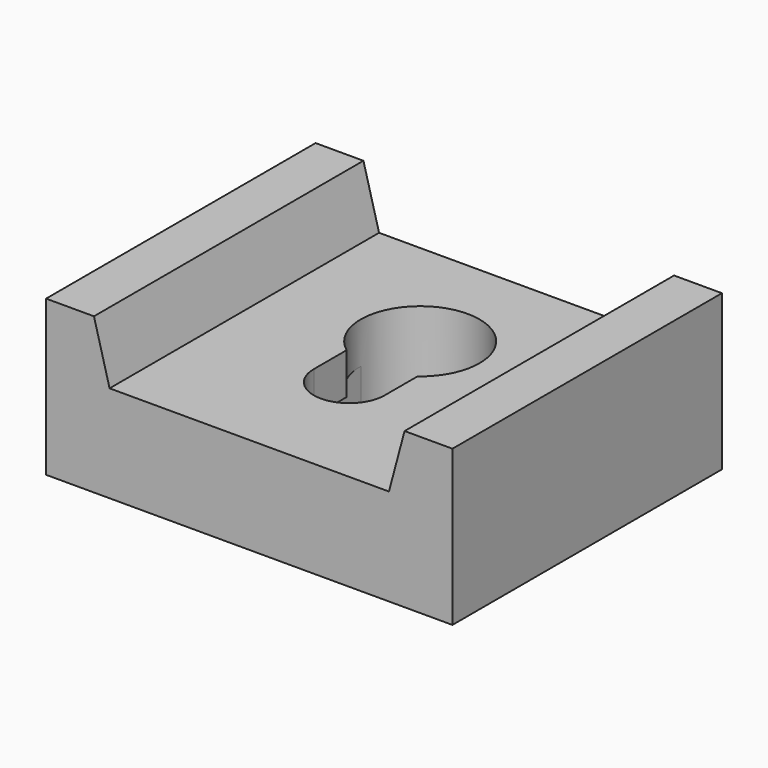
from build123d import *

# Parameters (mm, degrees)
F0_W     = 58.2168
F0_H     = 22.225
F1_DEPTH = 48.26
F3_DEPTH = 48.261
F5_DEPTH = 7.9502
F7_DEPTH = 14.2758


with BuildPart() as f1:
    # F0 (on Front) → F1 (new body)
    with BuildSketch(Plane.XZ):
        Rectangle(F0_W, F0_H)
    extrude(amount=F1_DEPTH)

    # F2 (on face) → F3 (cut, through all)
    with BuildSketch(Plane.XZ.offset(48.26)):
        Polygon((-22.2504, 11.1125), (-20.0112557785, 2.7559), (20.0112557785, 2.7559), (22.2504, 11.1125), (29.1084, 11.1125), (29.1084, 14.9114290252), (-29.1084, 14.9114290252), (-29.1084, 11.1125), align=None)
    extrude(amount=-F3_DEPTH, mode=Mode.SUBTRACT)

    # F4 (on face) → F5 (cut)
    with BuildSketch(Plane(origin=(0, 0, -11.1125), x_dir=(1, 0, 0), z_dir=(0, 0, -1))):
        with BuildLine():
            Line((8.509, 17.653), (8.509, 30.353))
            ThreePointArc((8.509, 30.353), (0, 38.862), (-8.509, 30.353))
            Line((-8.509, 30.353), (-8.509, 17.653))
            ThreePointArc((-8.509, 17.653), (0, 9.144), (8.509, 17.653))
        make_face()
    extrude(amount=-F5_DEPTH, mode=Mode.SUBTRACT)

    # F6 (on face) → F7 (cut, through all)
    with BuildSketch(Plane(origin=(0, 0, -3.1623), x_dir=(1, 0, 0), z_dir=(0, 0, -1))):
        with BuildLine():
            Line((-5.08, 30.353), (-5.08, 24.4791761624))
            ThreePointArc((-5.08, 24.4791761624), (0, 9.144), (5.08, 24.4791761624))
            Line((5.08, 24.4791761624), (5.08, 30.353))
            ThreePointArc((5.08, 30.353), (0, 35.433), (-5.08, 30.353))
        make_face()
    extrude(amount=-F7_DEPTH, mode=Mode.SUBTRACT)


solid = f1.part
